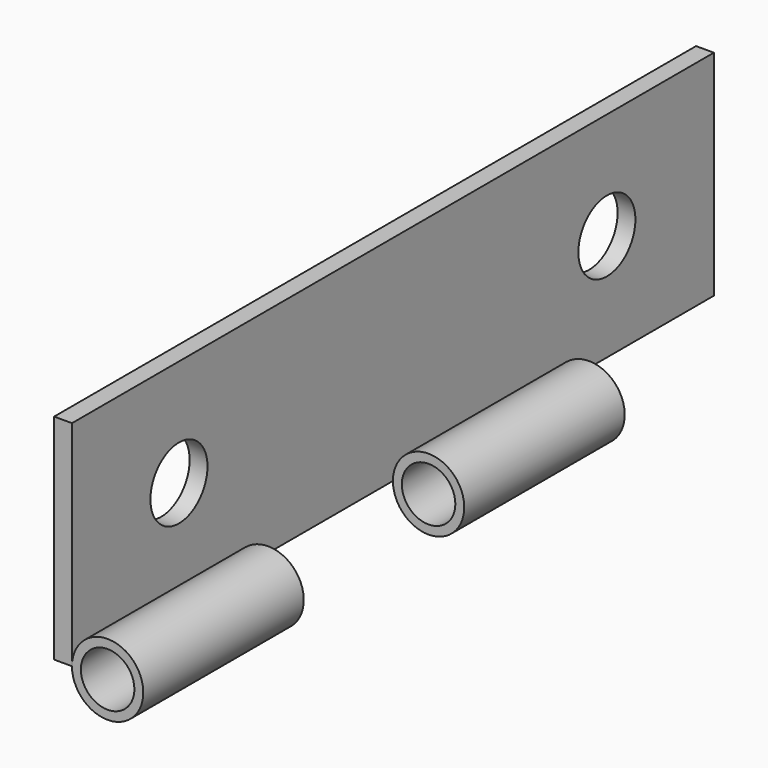
from build123d import *

# Parameters (mm, degrees)
SKETCH005_W            = 45
SKETCH005_H            = 12
SKETCH005_R            = 2
PAD005_DEPTH           = 1
SKETCH006_R            = 2
SKETCH006_R_2          = 1.5
PAD006_DEPTH           = 11.25
LINEARPATTERN002_COUNT = 2
LINEARPATTERN002_PITCH = 22.5


with BuildPart() as part:
    # Sketch005 → Pad005 (new body)
    with BuildSketch(Plane.YZ):
        with Locations((172.5, 6)):
            Rectangle(SKETCH005_W, SKETCH005_H)
        with Locations((157.5, 6)):
            Circle(SKETCH005_R, mode=Mode.SUBTRACT)
        with Locations((187.5, 6)):
            Circle(SKETCH005_R, mode=Mode.SUBTRACT)
    extrude(amount=PAD005_DEPTH)

    # Sketch006 (on Face4 of Pad005) → Pad006 (join)
    with BuildSketch(Plane(origin=(0, 150, 0), x_dir=(0, 0, -1), z_dir=(0, -1, 0))):
        with Locations((0, 3)):
            Circle(SKETCH006_R)
        with Locations((0, 3)):
            Circle(SKETCH006_R_2, mode=Mode.SUBTRACT)
    pad006 = extrude(amount=-PAD006_DEPTH)

    # LinearPattern002: Pad006 ×2
    with Locations(*[(0, i * LINEARPATTERN002_PITCH, 0) for i in range(1, LINEARPATTERN002_COUNT)]):
        add(pad006)


solid = part.part
